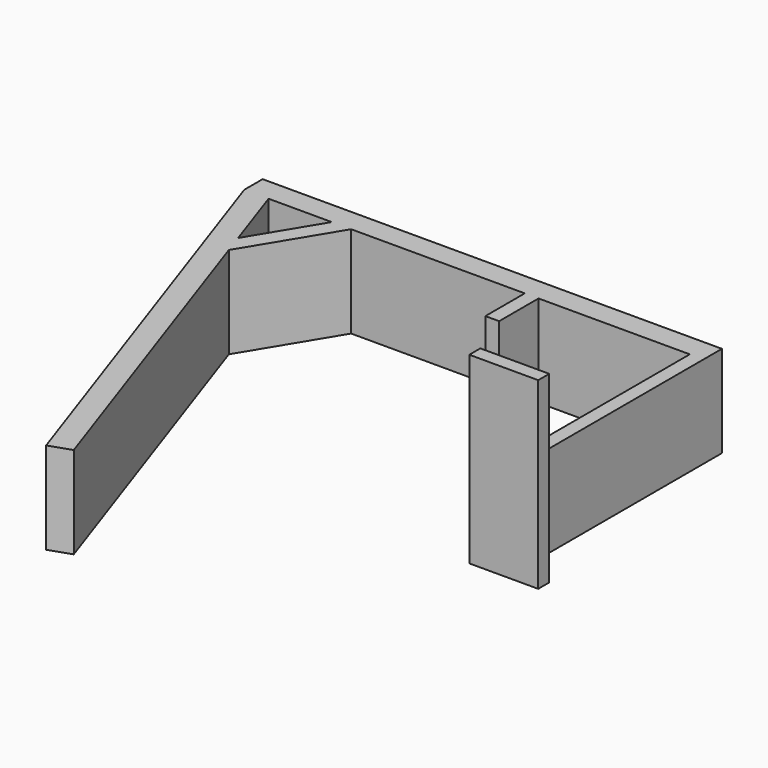
from build123d import *

# Parameters (mm, degrees)
F0_W     = 3
F0_H     = 50.536646
F0_H_2   = 10.719895
F1_DEPTH = 20
F2_W     = 15
F2_H     = 40
F3_DEPTH = 3


with BuildPart() as f1:
    # F0 (on Top) → F1 (new body)
    with BuildSketch(Plane.XY):
        Polygon((-32.92932, 0), (0, 0), (3, 0), (3, 5), (-97, 5), (-97, 0), (-91.712957, 0), (-77.947989, 0), (-73.732667, 0), (-35.92932, 0), align=None)
        with Locations((1.5, -25.268323)):
            Rectangle(F0_W, F0_H)
        with Locations((-34.42932, -5.359947)):
            Rectangle(F0_W, F0_H_2)
        Polygon((-85.19516, -18.964979), (-73.732667, 0), (-77.947989, 0), (-86.723201, -14.518805), align=None)
        Polygon((-91.712957, 0), (-97, 0), (-64.49833, -94.570828), (-59.769789, -92.945744), (-85.19516, -18.964979), (-86.723201, -14.518805), align=None)
    extrude(amount=F1_DEPTH)

    # F2 (on face) → F3 (join)
    with BuildSketch(Plane.XZ.offset(50.536646)):
        with Locations((2.331055, 20)):
            Rectangle(F2_W, F2_H)
    extrude(amount=F3_DEPTH)


solid = f1.part
